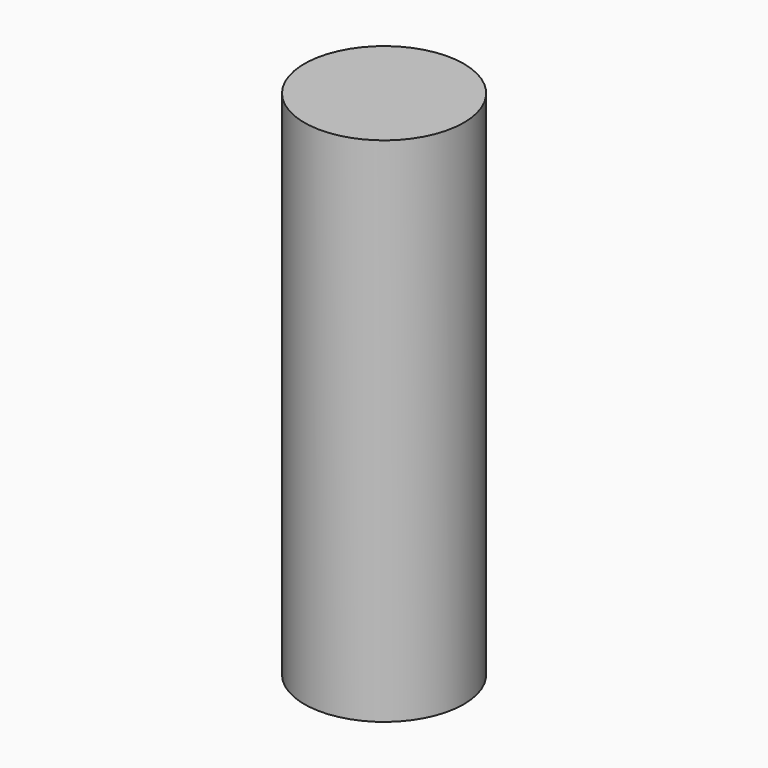
from build123d import *

# Parameters (mm, degrees)
CYLINDER_R     = 2.3368
CYLINDER_DEPTH = 15


with BuildPart() as part:
    # Cylinder → Cylinder (new body)
    with BuildSketch(Plane.XY.offset(-2.5)):
        Circle(CYLINDER_R)
    extrude(amount=CYLINDER_DEPTH)


solid = part.part
